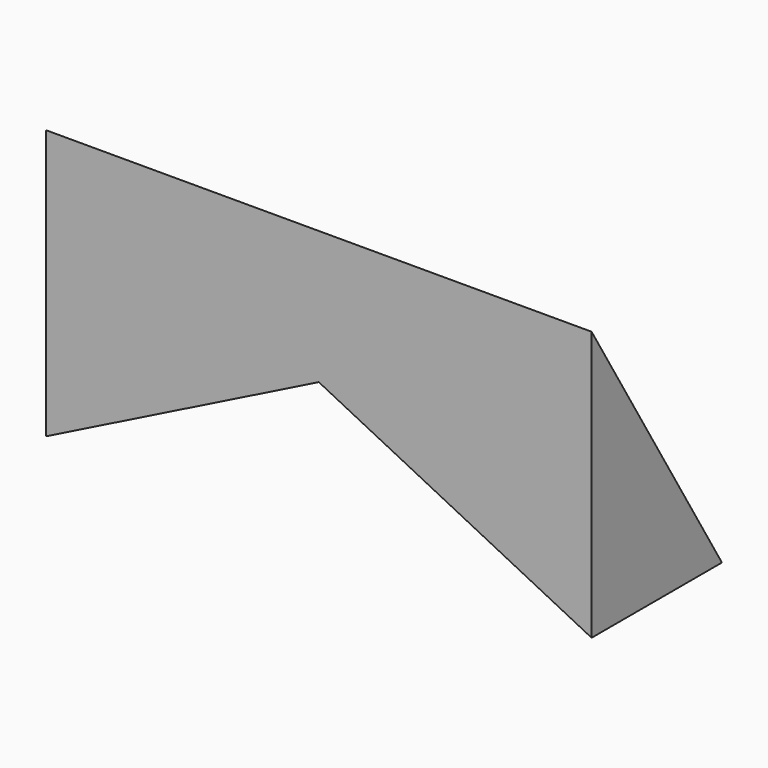
from build123d import *

# Parameters (mm, degrees)
F1_DEPTH      = 38.1
F3_DEPTH      = 127
F3_DEPTH_BACK = 141.224


with BuildPart() as f1:
    # F0 (on Front) → F1 (new body)
    with BuildSketch(Plane.XZ):
        Polygon((0, 52.8611473963), (-63.5, 52.8611473963), (-63.5, -10.6388526037), (0, 21.1111473963), (63.5, -10.6388526037), (63.5, 52.8611473963), align=None)
    extrude(amount=F1_DEPTH)

    # F2 (on Right) → F3 (cut, two sides)
    with BuildSketch(Plane.YZ) as f3_sk:
        Polygon((0, -10.9303286299), (0, 53.1942620873), (-38.7662313879, 53.1942620873), align=None)
    extrude(amount=-F3_DEPTH, mode=Mode.SUBTRACT)
    extrude(f3_sk.sketch, amount=F3_DEPTH_BACK, mode=Mode.SUBTRACT)


solid = f1.part
